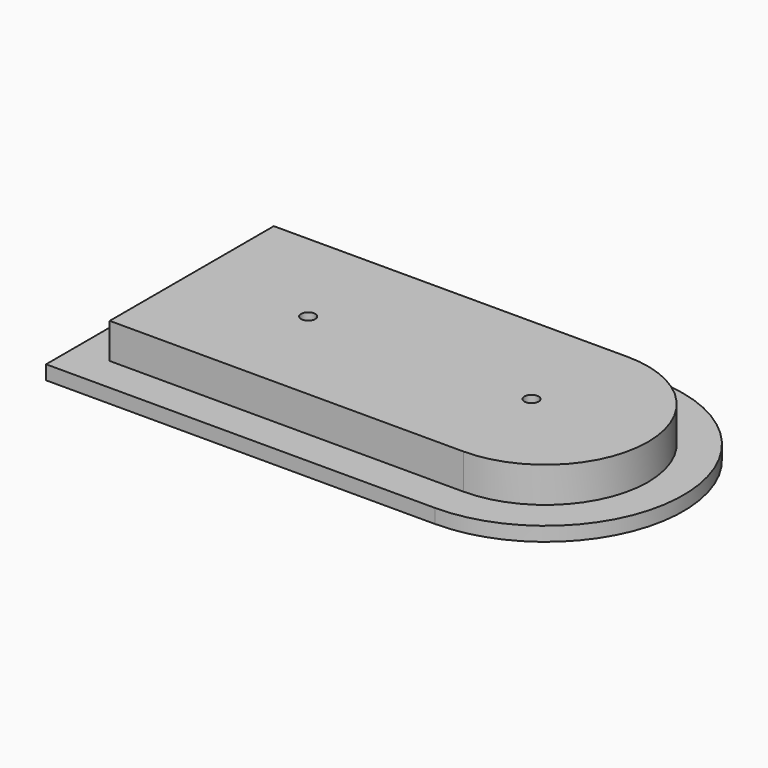
from build123d import *

# Parameters (mm, degrees)
F1_DEPTH = 5
F3_DEPTH = 2
F4_R     = 1
F5_DEPTH = 25
F6_ANGLE = 180


with BuildPart() as f1:
    # F0 (on Top) → F1 (new body)
    with BuildSketch(Plane.XY):
        with BuildLine():
            ThreePointArc((-25, 14.5), (-39.5, 0), (-25, -14.5))
            Line((-25, -14.5), (25, -14.5))
            Line((25, -14.5), (25, 14.5))
            Line((25, 14.5), (-25, 14.5))
        make_face()
    extrude(amount=F1_DEPTH)

    # F2 (on face) → F3 (join)
    with BuildSketch(Plane.XY.offset(5)):
        with BuildLine():
            Line((-25, -19.5), (30, -19.5))
            Line((30, -19.5), (30, 19.5))
            Line((30, 19.5), (-25, 19.5))
            ThreePointArc((-25, 19.5), (-44.5, 0), (-25, -19.5))
        make_face()
    extrude(amount=F3_DEPTH)

    # F4 (on face) → F5 (cut)
    with BuildSketch(Plane(origin=(0, 0, 0), x_dir=(1, 0, 0), z_dir=(0, 0, -1))):
        with Locations((8.543553, 0)):
            Circle(F4_R)
        with Locations((-23.043553, 0)):
            Circle(F4_R)
    extrude(amount=-F5_DEPTH, mode=Mode.SUBTRACT)


with BuildPart() as f1_1:
    # F6: moved
    add(f1.part.rotate(Axis((30, 0, 7), (0, 1, 0)), F6_ANGLE))


with BuildPart() as f1_2:
    # F7: moved
    add(f1_1.part.moved(Location((-64.7, 0, -7))))


solid = f1_2.part
